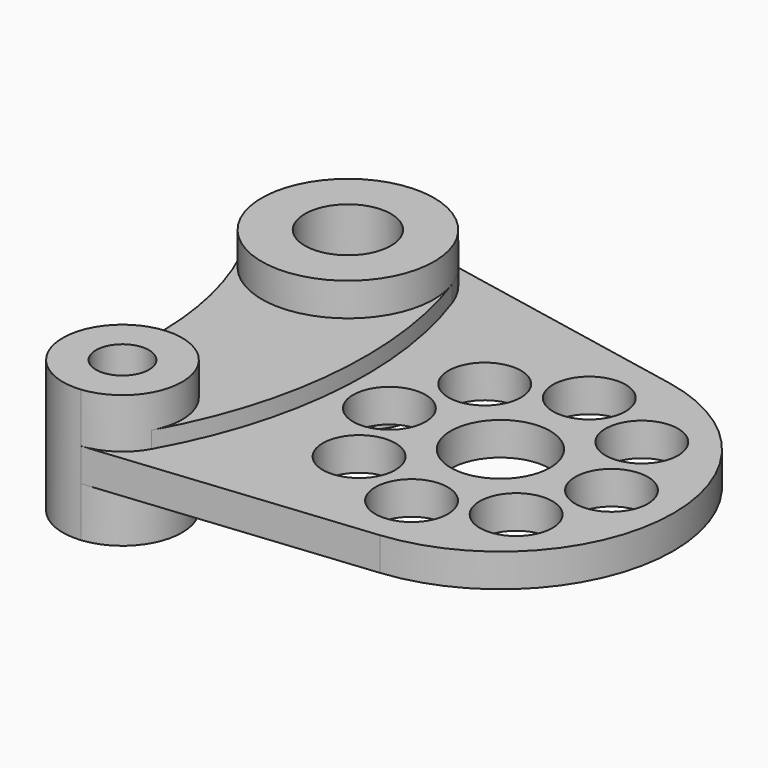
from build123d import *

# Parameters (mm, degrees)
SKETCH_R           = 15
SKETCH_R_2         = 8
SKETCH_R_3         = 13
PAD_DEPTH          = 5
SKETCH001_R        = 10.95
POCKET_DEPTH       = 413.746593
POCKET_DEPTH_BACK  = 413.746593
POLARPATTERN_COUNT = 8
SKETCH002_R        = 8
SKETCH002_R_2      = 13
PAD001_DEPTH       = 10
SKETCH003_R        = 13
SKETCH003_R_2      = 8
PAD002_DEPTH       = 20


with BuildPart() as part:
    # Sketch → Pad (new body, symmetric)
    with BuildSketch(Plane.XY):
        with BuildLine():
            ThreePointArc((5.273855, -51.932903), (52.142702, -2.445125), (10.110599, 51.211481))
            Line((10.110599, 51.211481), (-74.964069, 68.007634))
            ThreePointArc((-74.964069, 68.007634), (-100.516168, 58.471439), (-103.492932, 31.360784))
            ThreePointArc((-97.367005, -37.768495), (-94.240703, -2.65539), (-103.492932, 31.360784))
            ThreePointArc((-97.367005, -37.768495), (-93.732228, -54.137264), (-78.181429, -60.407898))
            Line((-78.181429, -60.407898), (5.273855, -51.932903))
        make_face()
        Circle(SKETCH_R, mode=Mode.SUBTRACT)
        with Locations((-80, -42.5)):
            Circle(SKETCH_R_2, mode=Mode.SUBTRACT)
        with Locations((-80, 42.5)):
            Circle(SKETCH_R_3, mode=Mode.SUBTRACT)
    extrude(amount=PAD_DEPTH, both=True)

    # Sketch001 → Pocket (cut, two sides)
    with BuildSketch(Plane.XY) as pocket_sk:
        with Locations((33.5, 0)):
            Circle(SKETCH001_R)
    pocket = extrude(amount=-POCKET_DEPTH, mode=Mode.SUBTRACT) + extrude(pocket_sk.sketch, amount=POCKET_DEPTH_BACK, mode=Mode.SUBTRACT)

    # PolarPattern: Pocket ×8 about axis
    polarpattern_axis = Axis((0, 0, 0), (0, 0, 1))
    for i in range(1, POLARPATTERN_COUNT):
        add(pocket.rotate(polarpattern_axis, i * 360 / POLARPATTERN_COUNT), mode=Mode.SUBTRACT)

    # Sketch002 → Pad001 (join, symmetric)
    with BuildSketch(Plane.XY):
        with BuildLine():
            ThreePointArc((-74.964069, 68.007634), (-100.516168, 58.471439), (-103.492932, 31.360784))
            ThreePointArc((-97.367005, -37.768495), (-94.240703, -2.65539), (-103.492932, 31.360784))
            ThreePointArc((-97.367005, -37.768495), (-93.732228, -54.137264), (-78.181429, -60.407898))
            ThreePointArc((-78.181429, -60.407898), (-70.117222, -57.544291), (-64.286757, -51.280319))
            ThreePointArc((-64.286757, -51.280319), (-48.867416, -1.030474), (-55.469, 51.115686))
            ThreePointArc((-55.469, 51.115686), (-62.973981, 62.149801), (-74.964069, 68.007634))
        make_face()
        with Locations((-80, -42.5)):
            Circle(SKETCH002_R, mode=Mode.SUBTRACT)
        with Locations((-80, 42.5)):
            Circle(SKETCH002_R_2, mode=Mode.SUBTRACT)
    extrude(amount=PAD001_DEPTH, both=True)

    # Sketch003 → Pad002 (join, symmetric)
    with BuildSketch(Plane.XY):
        with BuildLine():
            ThreePointArc((-74.964069, 68.007634), (-100.516168, 58.471439), (-103.492932, 31.360784))
            ThreePointArc((-103.492932, 31.360784), (-59.483832, 26.528561), (-74.964069, 68.007634))
        make_face()
        with Locations((-80, 42.5)):
            Circle(SKETCH003_R, mode=Mode.SUBTRACT)
        with BuildLine():
            ThreePointArc((-97.367005, -37.768495), (-93.732228, -54.137264), (-78.181429, -60.407898))
            ThreePointArc((-78.181429, -60.407898), (-66.267772, -30.862736), (-97.367005, -37.768495))
        make_face()
        with Locations((-80, -42.5)):
            Circle(SKETCH003_R_2, mode=Mode.SUBTRACT)
    extrude(amount=PAD002_DEPTH, both=True)


solid = part.part
